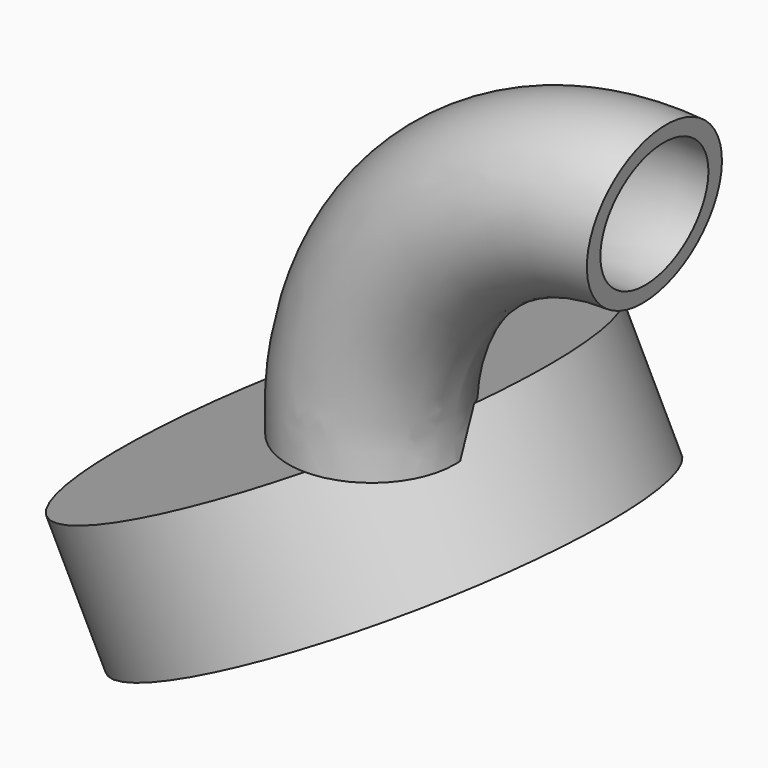
from build123d import *

# Parameters (mm, degrees)
F0_R     = 15.875
F0_R_2   = 12.7
F6_R     = 45.9195273945
F7_DEPTH = 25.4


with BuildPart() as f2:
    # F2: sweep along a path in F1
    with BuildLine(Plane.XZ) as f2_path:
        ThreePointArc((53.9907425622, 54.5098847274), (14.5637300095, 39.5681869591), (0, 0))
    # F0 (on Top) → F2 (sweep)
    with BuildSketch(Plane.XY):
        Circle(F0_R)
        Circle(F0_R_2, mode=Mode.SUBTRACT)
    sweep(path=f2_path.line)

    # F6 (on 3pt) → F7 (join)
    with BuildSketch(Plane(origin=(0, 0, 0), x_dir=(0.8949343616, 0, 0.4461978131), z_dir=(0.4461978131, 0, -0.8949343616))):
        with Locations((-27.1346326917, -21.4738007635)):
            Circle(F6_R)
    extrude(amount=F7_DEPTH)


solid = f2.part
